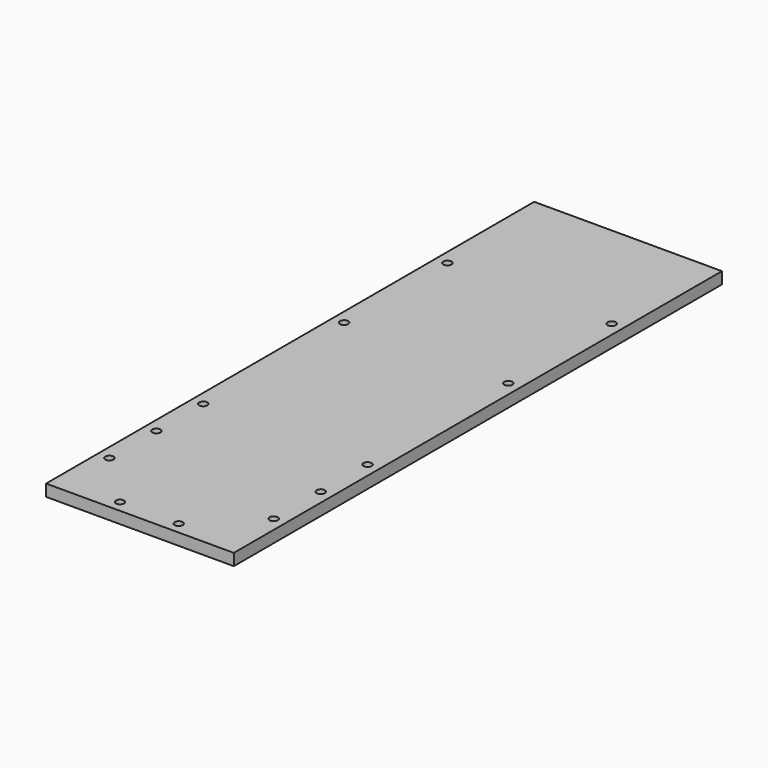
from build123d import *

# Parameters (mm, degrees)
F0_W           = 160
F0_H           = 520
F0_W_2         = 150
F0_H_2         = 510
F1_DEPTH       = 10
F3_D           = 3.5
F3_CBORE_D     = 7
F3_CBORE_DEPTH = 5


with BuildPart() as f1:
    # F0 (on Top) → F1 (new body)
    with BuildSketch(Plane.XY):
        with Locations((-21.034172, 133.307457)):
            Rectangle(F0_W, F0_H)
        with Locations((-21.034172, 133.307457)):
            Rectangle(F0_W_2, F0_H_2, mode=Mode.SUBTRACT)
        with Locations((-21.034172, 133.307457)):
            Rectangle(F0_W_2, F0_H_2)
    extrude(amount=F1_DEPTH)

    # F3 (through all)
    with Locations(Plane.XY.offset(10)):
        with Locations((-91.034172, 288.307457), (-91.034172, 178.307457), (48.965828, 178.307457), (48.965828, 288.307457), (48.965828, 28.307457), (48.965828, -21.692543), (48.965828, -71.692543), (3.965828, -116.692543), (-46.034172, -116.692543), (-91.034172, -71.692543), (-91.034172, -21.692543), (-91.034172, 28.307457)):
            CounterBoreHole(F3_D / 2, F3_CBORE_D / 2, F3_CBORE_DEPTH)


solid = f1.part
